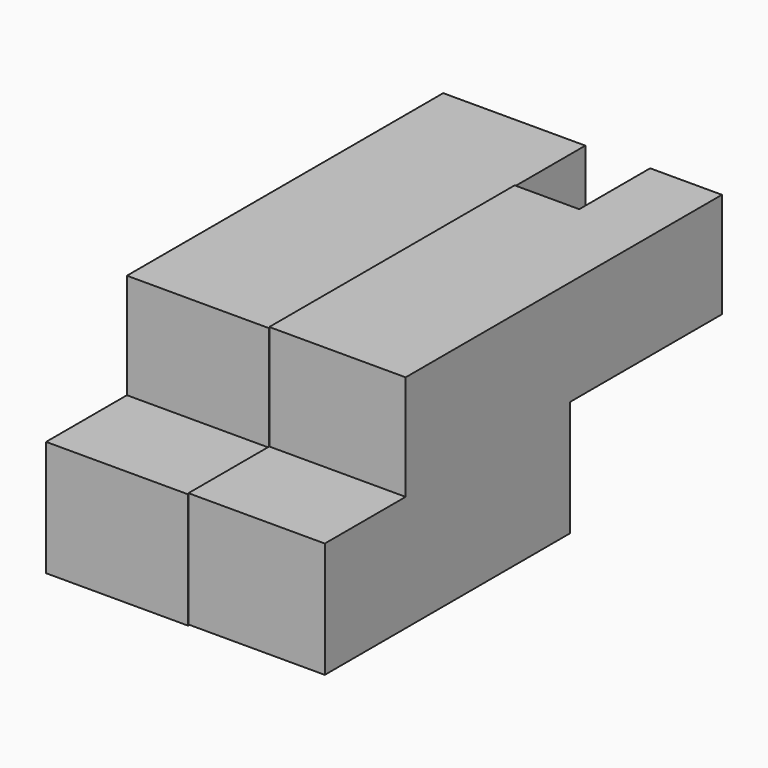
from build123d import *

# Parameters (mm, degrees)
F1_DEPTH = 24.13
F2_W     = 15.685529
F2_H     = 20.463388
F3_DEPTH = 11.43
F5_DEPTH = 25.146


with BuildPart() as f1:
    # F0 (on Right) → F1 (new body)
    with BuildSketch(Plane.YZ):
        Polygon((0, 21.47734), (-69.962664, 21.47734), (-69.962664, 2.857499), (-33.644756, 2.857499), (0, 2.857499), align=None)
        Polygon((-33.644756, 2.857499), (-69.962664, 2.857499), (-87.845083, 2.857499), (-87.845083, -17.605888), (-33.644756, -17.605888), align=None)
    extrude(amount=F1_DEPTH)

    # F2 (on Right) → F3 (cut)
    with BuildSketch(Plane.YZ):
        with Locations((-7.842764, 12.16742)):
            Rectangle(F2_W, F2_H)
    extrude(amount=F3_DEPTH, mode=Mode.SUBTRACT)

    # F4 (on Right) → F5 (join)
    with BuildSketch(Plane.YZ):
        Polygon((-0.056833, 21.314132), (-70.019497, 21.314132), (-70.019497, 2.694292), (-33.701589, 2.694292), (-0.056833, 2.694292), align=None)
        Polygon((-33.701589, 2.694292), (-70.019497, 2.694292), (-87.901916, 2.694292), (-87.901916, -17.769095), (-33.701589, -17.769095), align=None)
    extrude(amount=-F5_DEPTH)


solid = f1.part
